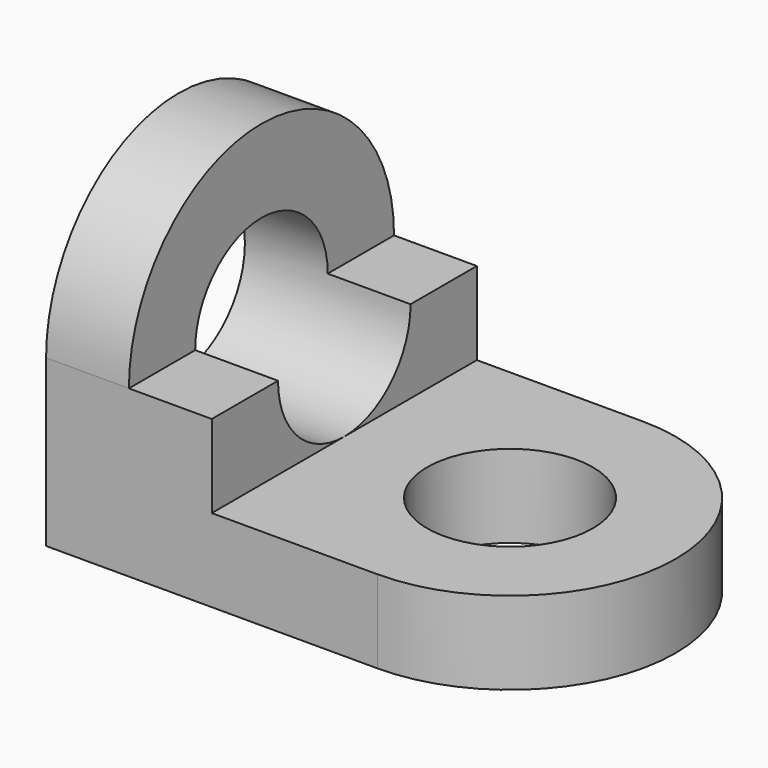
from build123d import *

# Parameters (mm, degrees)
F0_R     = 10
F1_DEPTH = 20
F3_DEPTH = 10
F4_R     = 10
F5_DEPTH = 10


with BuildPart() as f1:
    # F0 (on Right) → F1 (new body)
    with BuildSketch(Plane.YZ):
        with BuildLine():
            Line((-20, 20), (-20, 0))
            Line((-20, 0), (20, 0))
            Line((20, 0), (20, 20))
            ThreePointArc((20, 20), (0, 40), (-20, 20))
        make_face()
        with Locations((0, 20)):
            Circle(F0_R, mode=Mode.SUBTRACT)
    extrude(amount=F1_DEPTH)

    # F2 (on face) → F3 (cut)
    with BuildSketch(Plane.YZ.offset(20)):
        with BuildLine():
            Line((-10, 20), (10, 20))
            ThreePointArc((10, 20), (0, 30), (-10, 20))
        make_face()
        with BuildLine():
            ThreePointArc((-10, 20), (0, 30), (10, 20))
            Line((10, 20), (20, 20))
            ThreePointArc((20, 20), (0, 40), (-20, 20))
            Line((-20, 20), (-10, 20))
        make_face()
    extrude(amount=-F3_DEPTH, mode=Mode.SUBTRACT)

    # F4 (on Top) → F5 (join)
    with BuildSketch(Plane.XY):
        with BuildLine():
            Line((0, -20), (40, -20))
            ThreePointArc((40, -20), (60, 0), (40, 20))
            Line((40, 20), (0, 20))
            Line((0, 20), (0, -20))
        make_face()
        with Locations((40, 0)):
            Circle(F4_R, mode=Mode.SUBTRACT)
    extrude(amount=F5_DEPTH)


solid = f1.part
